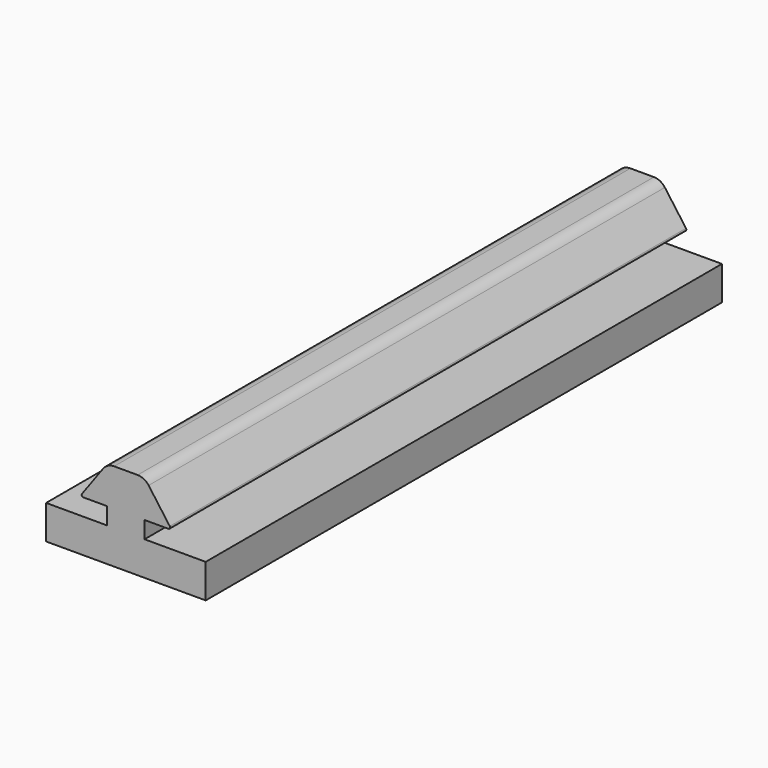
from build123d import *

# Parameters (mm, degrees)
F0_W     = 2.75
F0_H     = 5.5
F1_DEPTH = 95
F2_R     = 2
F3_R     = 0.25
F4_DEPTH = 5
F5_DEPTH = 5


with BuildPart() as f1:
    # F0 (on Front) → F1 (new body)
    with BuildSketch(Plane.XZ):
        with Locations((1.375, 2.75)):
            Rectangle(F0_W, F0_H)
        Polygon((0, 0), (-2.75, 0), (-2.75, -2.5), (-6.75, -2.5), (-6.75, -7.5), (6.75, -7.5), (6.75, -2.5), (2.75, -2.5), (2.75, 0), align=None)
        Polygon((2.75, 5.5), (2.75, 0), (6.75, 0), align=None)
        with Locations((-1.375, 2.75)):
            Rectangle(F0_W, F0_H)
        Polygon((-2.75, 5.5), (-6.75, 0), (-2.75, 0), align=None)
    extrude(amount=F1_DEPTH)

    # F2
    f2_edges = [f1.edges().sort_by_distance(p)[0] for p in [
        (2.75, -47.5, 5.5),
        (-2.75, -47.5, 5.5),
    ]]
    fillet(f2_edges, radius=F2_R)

    # F3
    f3_edges = [f1.edges().sort_by_distance(p)[0] for p in [
        (6.75, -47.5, 0),
        (-6.75, -47.5, 0),
    ]]
    fillet(f3_edges, radius=F3_R)

    # F4 (add): a face of the model
    f4_faces = [f1.faces().sort_by_distance(p)[0] for p in [
        (-6.75, -47.5, -5),
    ]]
    extrude(f4_faces, amount=F4_DEPTH)

    # F5 (add): a face of the model
    f5_faces = [f1.faces().sort_by_distance(p)[0] for p in [
        (6.75, -47.5, -5),
    ]]
    extrude(f5_faces, amount=F5_DEPTH)


solid = f1.part
